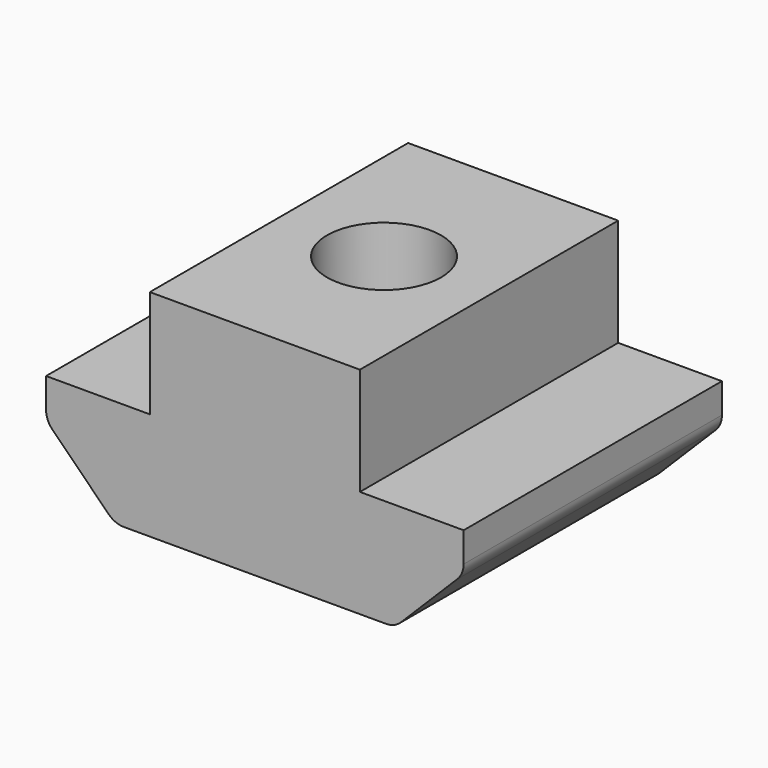
from build123d import *

# Parameters (mm, degrees)
F0_W     = 9.76
F0_H     = 5
F1_DEPTH = 15
F2_SIZE  = 3.2
F3_R     = 2.65
F4_DEPTH = 10.001
F5_DEPTH = 4
F6_R     = 1


with BuildPart() as f1:
    # F0 (on Front) → F1 (new body)
    with BuildSketch(Plane.XZ):
        Polygon((-9.7, -2.5), (9.7, -2.5), (9.7, 2.5), (4.88, 2.5), (-4.88, 2.5), (-9.7, 2.5), align=None)
        with Locations((0, 5)):
            Rectangle(F0_W, F0_H)
    extrude(amount=F1_DEPTH)

    # F2
    f2_edges = [f1.edges().sort_by_distance(p)[0] for p in [
        (9.7, -7.5, -2.5),
        (-9.7, -7.5, -2.5),
    ]]
    chamfer(f2_edges, length=F2_SIZE)

    # F3 (on face) → F4 (cut, through all)
    with BuildSketch(Plane(origin=(0, 0, -2.5), x_dir=(1, 0, 0), z_dir=(0, 0, -1))):
        with Locations((0, 7.5)):
            Circle(F3_R)
    extrude(amount=-F4_DEPTH, mode=Mode.SUBTRACT)

    # F3 (on face) → F5 (cut)
    with BuildSketch(Plane(origin=(0, 0, -2.5), x_dir=(1, 0, 0), z_dir=(0, 0, -1))):
        Polygon((-2.2805335633, 3.55), (2.2805335633, 3.55), (4.5610671266, 7.5), (2.2805335633, 11.45), (-2.2805335633, 11.45), (-4.5610671266, 7.5), align=None)
        with Locations((0, 7.5)):
            Circle(F3_R, mode=Mode.SUBTRACT)
    extrude(amount=-F5_DEPTH, mode=Mode.SUBTRACT)

    # F6
    f6_edges = [f1.edges().sort_by_distance(p)[0] for p in [
        (-6.5, -7.5, -2.5),
        (6.5, -7.5, -2.5),
        (9.7, -7.5, 0.7),
        (-9.7, -7.5, 0.7),
    ]]
    fillet(f6_edges, radius=F6_R)


solid = f1.part
